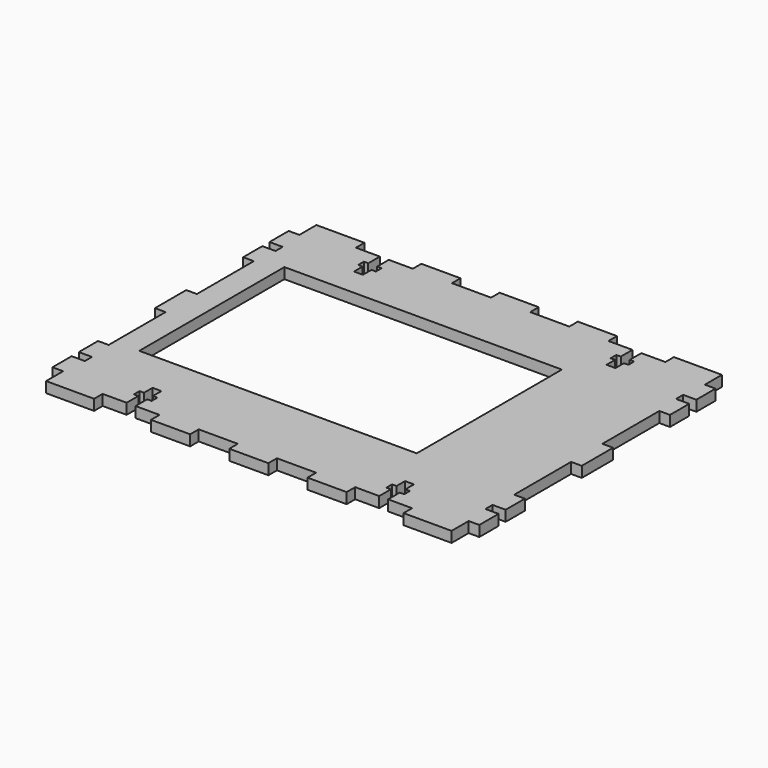
from build123d import *

# Parameters (mm, degrees)
SKETCH004_W                   = 120
SKETCH004_H                   = 95
PAD001_DEPTH                  = 3
SKETCH005_W                   = 3
SKETCH005_H                   = 6
SKETCH005_H_2                 = 20
SKETCH005_W_2                 = 16
SKETCH005_H_3                 = 3
SKETCH005_W_3                 = 11
POCKET003_DEPTH               = 309.164355
SKETCH005_MIRRORED006_2_W     = 3
SKETCH005_MIRRORED006_2_H     = 6
SKETCH005_MIRRORED006_2_H_2   = 20
SKETCH005_MIRRORED006_2_W_2   = 16
SKETCH005_MIRRORED006_2_H_3   = 3
SKETCH005_MIRRORED006_2_W_3   = 11
POCKET003_MIRRORED006_2_DEPTH = 309.164355
SKETCH006_W                   = 3.7
SKETCH006_H                   = 2.5
POCKET004_DEPTH               = 309.164355
SKETCH006_MIRRORED008_2_W     = 3.7
SKETCH006_MIRRORED008_2_H     = 2.5
POCKET004_MIRRORED008_2_DEPTH = 309.164355
SKETCH007_W                   = 78
SKETCH007_H                   = 51
POCKET005_DEPTH               = 3.001


with BuildPart() as part:
    # Sketch004 → Pad001 (new body)
    with BuildSketch(Plane.XY):
        Rectangle(SKETCH004_W, SKETCH004_H)
    extrude(amount=PAD001_DEPTH)

    # Sketch005 → Pocket003 (cut, through all)
    with BuildSketch(Plane.XY):
        with Locations((-58.5, 44.5)):
            Rectangle(SKETCH005_W, SKETCH005_H)
        with Locations((-58.5, 15.5)):
            Rectangle(SKETCH005_W, SKETCH005_H_2)
        with Locations((-35.5, 46)):
            Rectangle(SKETCH005_W_2, SKETCH005_H_3)
        with Locations((-11, 46)):
            Rectangle(SKETCH005_W_3, SKETCH005_H_3)
    pocket003 = extrude(amount=POCKET003_DEPTH, mode=Mode.SUBTRACT)

    # Sketch005 Mirrored006 2 → Pocket003 Mirrored006 2 (cut, through all)
    with BuildSketch(Plane(origin=(0, 0, 0), x_dir=(-1, 0, 0), z_dir=(0, 0, -1))):
        with Locations((-58.5, 44.5)):
            Rectangle(SKETCH005_MIRRORED006_2_W, SKETCH005_MIRRORED006_2_H)
        with Locations((-58.5, 15.5)):
            Rectangle(SKETCH005_MIRRORED006_2_W, SKETCH005_MIRRORED006_2_H_2)
        with Locations((-35.5, 46)):
            Rectangle(SKETCH005_MIRRORED006_2_W_2, SKETCH005_MIRRORED006_2_H_3)
        with Locations((-11, 46)):
            Rectangle(SKETCH005_MIRRORED006_2_W_3, SKETCH005_MIRRORED006_2_H_3)
    pocket003_mirrored006_2 = extrude(amount=-POCKET003_MIRRORED006_2_DEPTH, mode=Mode.SUBTRACT)

    # Mirrored007: Pocket003, Pocket003 Mirrored006 2 across Sketch005 H_Axis
    add(pocket003.mirror(Plane.ZX), mode=Mode.SUBTRACT)
    add(pocket003_mirrored006_2.mirror(Plane.ZX), mode=Mode.SUBTRACT)

    # Sketch006 → Pocket004 (cut, through all)
    with BuildSketch(Plane.XY):
        with Locations((-58.15, 33.5)):
            Rectangle(SKETCH006_W, SKETCH006_H)
        Polygon((-36.75, 47.5), (-34.25, 47.5), (-34.25, 40.4), (-33, 40.4), (-33, 38.4), (-34.25, 38.4), (-34.25, 35.4), (-36.75, 35.4), (-36.75, 38.4), (-38, 38.4), (-38, 40.4), (-36.75, 40.4), align=None)
    pocket004 = extrude(amount=POCKET004_DEPTH, mode=Mode.SUBTRACT)

    # Sketch006 Mirrored008 2 → Pocket004 Mirrored008 2 (cut, through all)
    with BuildSketch(Plane(origin=(0, 0, 0), x_dir=(-1, 0, 0), z_dir=(0, 0, -1))):
        with Locations((-58.15, 33.5)):
            Rectangle(SKETCH006_MIRRORED008_2_W, SKETCH006_MIRRORED008_2_H)
        Polygon((-36.75, 47.5), (-34.25, 47.5), (-34.25, 40.4), (-33, 40.4), (-33, 38.4), (-34.25, 38.4), (-34.25, 35.4), (-36.75, 35.4), (-36.75, 38.4), (-38, 38.4), (-38, 40.4), (-36.75, 40.4), align=None)
    pocket004_mirrored008_2 = extrude(amount=-POCKET004_MIRRORED008_2_DEPTH, mode=Mode.SUBTRACT)

    # Mirrored009: Pocket004, Pocket004 Mirrored008 2 across Sketch006 H_Axis
    add(pocket004.mirror(Plane.ZX), mode=Mode.SUBTRACT)
    add(pocket004_mirrored008_2.mirror(Plane.ZX), mode=Mode.SUBTRACT)

    # Sketch007 → Pocket005 (cut, through all)
    with BuildSketch(Plane.XY):
        with Locations((-11, 2)):
            Rectangle(SKETCH007_W, SKETCH007_H)
    extrude(amount=POCKET005_DEPTH, mode=Mode.SUBTRACT)


with BuildPart() as part_1:
    # Body001 placement: moved
    add(part.part.moved(Location((0, 0, 38))))


solid = part_1.part
